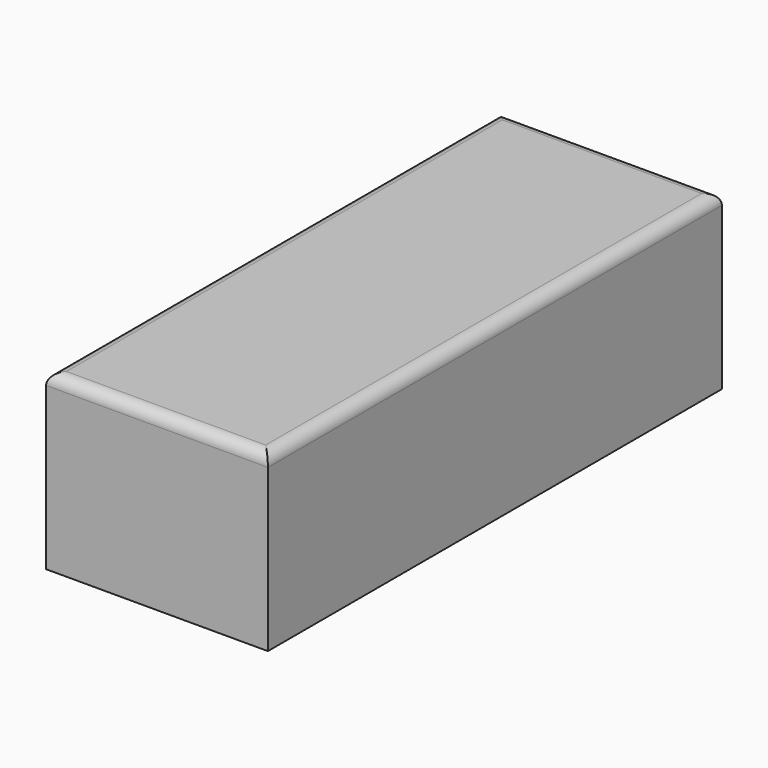
from build123d import *

# Parameters (mm, degrees)
F0_W     = 99.271897
F0_H     = 77.480506
F1_DEPTH = 127
F2_R     = 5.08


with BuildPart() as f1:
    # F0 (on Front) → F1 (new body, symmetric)
    with BuildSketch(Plane.XZ):
        with Locations((3.93456, -12.257656)):
            Rectangle(F0_W, F0_H)
    extrude(amount=F1_DEPTH, both=True)

    # F2
    f2_edges = [f1.edges().sort_by_distance(p)[0] for p in [
        (53.570509, 0, 26.482597),
        (3.93456, -127, 26.482597),
        (-45.701388, 0, 26.482597),
        (3.93456, 127, 26.482597),
    ]]
    fillet(f2_edges, radius=F2_R)


solid = f1.part
